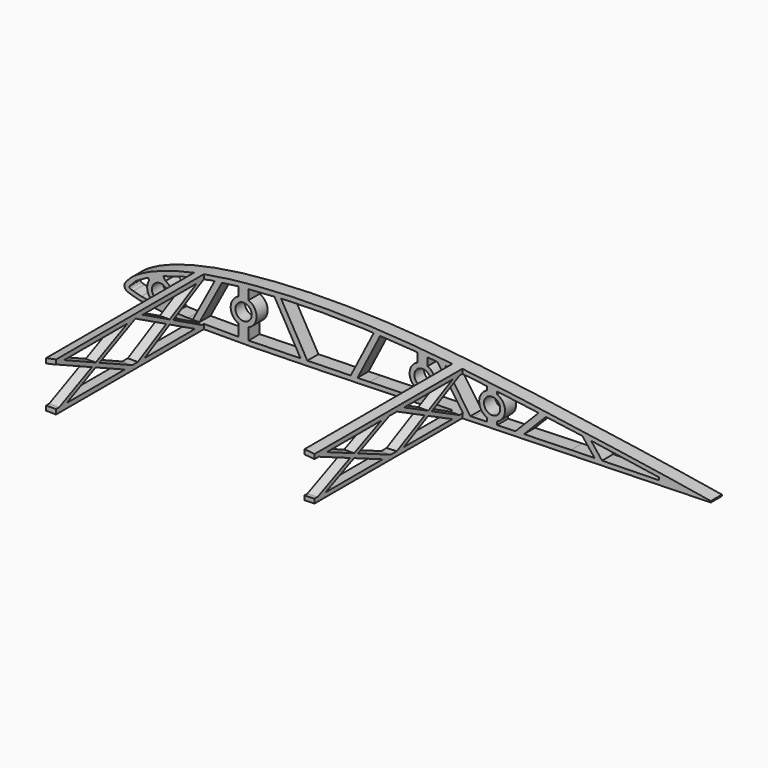
from build123d import *

# Parameters (mm, degrees)
PAD012_DEPTH    = 99.95
POCKET016_DEPTH = 99.95
SKETCH032_W     = 94.552856
SKETCH032_H     = 125.009666
POCKET017_DEPTH = 2.5
SKETCH177_W     = 55
SKETCH177_H     = 110
SKETCH177_W_2   = 125
SKETCH177_W_3   = 130
POCKET101_DEPTH = 50
SKETCH033_R     = 4.1
PAD013_DEPTH    = 7
PAD075_DEPTH    = 5
PAD076_DEPTH    = 5
CHAMFER005_SIZE = 1


with BuildPart() as part:
    # Sketch030 → Pad012 (new body)
    with BuildSketch(Plane.XZ):
        with BuildLine():
            add(Edge.make_bspline(
                [(299.999063, 0.026825), (299.662766, 0.037193), (298.339429, 0.190401), (295.439956, 0.589669), (290.775356, 1.337839), (284.500044, 2.393262), (276.735212, 3.66473), (267.577355, 5.083019), (257.136483, 6.653879), (245.549215, 8.381993), (232.975291, 10.222771), (219.590016, 12.153256), (205.573823, 14.115503), (191.111579, 16.055183), (176.381713, 17.897983), (161.544489, 19.553409), (146.739309, 20.940939), (132.087536, 21.99009), (117.705275, 22.664279), (103.703346, 22.961168), (90.192549, 22.858072), (77.284675, 22.375726), (65.094168, 21.544938), (53.730431, 20.369385), (43.29002, 18.857963), (33.852484, 17.043697), (25.485501, 14.967735), (18.252292, 12.67281), (12.179436, 10.224412), (7.338355, 7.689021), (3.623023, 5.152403), (1.3546, 2.748114), (-0.314638, 0.590402), (0.575789, -1.804065), (3.482069, -2.72942), (7.386052, -3.91761), (13.030922, -4.754284), (20.096342, -5.463024), (28.645402, -5.933379), (38.56853, -6.201185), (49.790194, -6.284208), (62.196701, -6.193111), (75.660953, -5.967607), (90.034637, -5.629522), (105.153445, -5.226063), (120.83724, -4.775199), (136.895942, -4.296045), (153.13493, -3.818601), (169.356828, -3.345106), (185.36574, -2.889379), (200.968742, -2.465331), (215.974941, -2.074889), (230.201502, -1.715375), (243.47905, -1.394255), (255.639348, -1.103787), (266.55871, -0.849968), (276.034544, -0.603524), (284.209012, -0.340437), (290.324953, -0.117215), (295.955653, 0.018504), (297.364702, 0.013759), (300.343856, 0.01512), (300.000055, 0.026794), (299.999063, 0.026825)],
                knots=[0, 0, 0, 0, 1.017748, 3.99659, 8.779341, 15.189917, 23.087031, 32.383824, 42.990765, 54.76218, 67.530065, 81.114584, 95.333435, 109.988542, 124.889458, 139.866624, 154.774633, 169.496697, 183.930349, 197.964304, 211.506735, 224.45797, 236.709214, 248.156653, 258.723012, 268.346769, 276.97692, 284.567784, 291.102108, 296.573756, 300.992679, 304.39163, 306.761357, 308.43213, 311.131254, 315.298227, 320.951765, 328.080828, 336.654655, 346.609821, 357.866231, 370.316475, 383.83025, 398.264023, 413.449345, 429.202773, 445.334827, 461.646891, 477.940787, 494.021253, 509.693044, 524.767168, 539.054704, 552.387642, 564.607107, 575.560217, 585.109622, 593.180747, 599.700326, 604.53767, 607.540683, 608.560842, 608.563842, 608.563842, 608.563842, 608.563842], degree=3))
        make_face()
    extrude(amount=PAD012_DEPTH)

    # Sketch031 (on Face3 of Pad012) → Pocket016 (cut)
    with BuildSketch(Plane.XZ.offset(99.95)):
        with BuildLine():
            Line((2.713263, 0.775372), (3.386703, 1.523026))
            Line((3.386703, 1.523026), (5.993214, 4.179621))
            Line((5.993214, 4.179621), (11.230826, 7.180706))
            Line((11.230826, 7.180706), (18.928726, 10.492708))
            Line((18.928726, 10.492708), (30.015602, 13.804502))
            Line((30.015602, 13.804502), (43.705284, 16.658491))
            Line((43.705284, 16.658491), (58.37534, 18.58366))
            Line((58.37534, 18.58366), (81.932846, 20.199753))
            Line((81.932846, 20.199753), (99.115959, 20.581533))
            Line((99.115959, 20.581533), (120.506348, 20.199753))
            Line((120.506348, 20.199753), (145.772324, 18.655943))
            Line((145.772324, 18.655943), (175.747543, 15.772772))
            Line((175.747543, 15.772772), (200.435547, 12.569891))
            Line((200.435547, 12.569891), (229.384109, 8.602522))
            Line((229.384109, 8.602522), (252.135086, 5.213018))
            Line((252.135086, 5.213018), (269.069916, 2.671427))
            Line((269.069916, 2.671427), (269.069916, 1.39956))
            Line((269.069916, 1.39956), (224.761032, 0.436598))
            Line((224.761032, 0.436598), (175.486649, -1.027315))
            Line((175.486649, -1.027315), (123.47789, -2.412929))
            Line((123.47789, -2.412929), (62.077515, -3.876549))
            Line((62.077515, -3.876549), (32.052879, -3.760909))
            Line((32.052879, -3.760909), (18.887957, -3.18288))
            Line((18.887957, -3.18288), (12.728564, -2.489715))
            Line((12.728564, -2.489715), (8.493419, -1.872198))
            Line((8.493419, -1.872198), (4.562357, -0.768246))
            Line((4.562357, -0.768246), (3.013953, -0.301296))
            ThreePointArc((2.713263, 0.775372), (2.567567, 0.15436), (3.013953, -0.301296))
        make_face()
    extrude(amount=-POCKET016_DEPTH, mode=Mode.SUBTRACT)

    # Sketch032 → Pocket017 (cut, symmetric)
    with BuildSketch(Plane.XY):
        with Locations((342.276428, -45.135685)):
            Rectangle(SKETCH032_W, SKETCH032_H)
    extrude(amount=POCKET017_DEPTH, both=True, mode=Mode.SUBTRACT)

    # Sketch177 → Pocket101 (cut, symmetric)
    with BuildSketch(Plane.XY):
        with Locations((7.5, -62)):
            Rectangle(SKETCH177_W, SKETCH177_H)
        with Locations((102.5, -62)):
            Rectangle(SKETCH177_W_2, SKETCH177_H)
        with Locations((235, -62)):
            Rectangle(SKETCH177_W_3, SKETCH177_H)
    extrude(amount=POCKET101_DEPTH, both=True, mode=Mode.SUBTRACT)

    # Sketch033 (on Face16 of Pocket101) → Pad013 (join)
    with BuildSketch(Plane.XZ.offset(7)):
        Polygon((45.883972, 17.721869), (33.929979, -4.654965), (37.331221, -4.654965), (49.864502, 18.806244), align=None)
        with BuildLine():
            ThreePointArc((12.49229, 6.45183), (11.877033, 0.818423), (15.915785, -3.156789))
            Line((15.915785, -3.156789), (16.615922, -4.582716))
            Line((16.615922, -4.582716), (26.093039, -4.582716))
            Line((23.927186, 0.331954), (26.093039, -4.582716))
            ThreePointArc((23.927186, 0.331954), (24.083233, 5.290038), (20.696327, 8.914374))
            Line((20.696327, 8.914374), (19.191151, 11.361285))
            Line((11.725203, 8.211095), (19.191151, 11.361285))
            Line((12.49229, 6.45183), (11.725203, 8.211095))
        make_face()
        with Locations((18, 3)):
            Circle(SKETCH033_R, mode=Mode.SUBTRACT)
        Polygon((74.837349, 20.968384), (89.206329, -4.249731), (92.659144, -4.249731), (78.184032, 21.154647), align=None)
        Polygon((113.371621, -3.617416), (125.992361, 20.986459), (129.33754, 20.934824), (116.743287, -3.617416), align=None)
        Polygon((156.489991, 19.012594), (171.223801, -2.187052), (175.064011, -2.455857), (160.385949, 18.663577), align=None)
        Polygon((195.991472, -1.145031), (209.190294, 12.320477), (213.439896, 12.370226), (200.19231, -1.145031), align=None)
        Polygon((229.837707, 9.194464), (237.095519, 0), (240.917549, 0), (234.226173, 8.476883), align=None)
        with BuildLine():
            ThreePointArc((57.5, 14), (53.5, 8), (57.5, 2))
            Line((57.5, 2), (57.5, -4.905906))
            Line((57.5, -4.905906), (62.5, -4.905906))
            Line((62.5, -4.905906), (62.5, 2))
            ThreePointArc((62.5, 2), (66.5, 8), (62.5, 14))
            Line((62.5, 14), (62.5, 20.034189))
            Line((62.5, 20.034189), (57.5, 19.556065))
            Line((57.5, 14), (57.5, 19.556065))
        make_face()
        with Locations((60, 8)):
            Circle(SKETCH033_R, mode=Mode.SUBTRACT)
        with BuildLine():
            ThreePointArc((147.5, 14), (143.5, 8), (147.5, 2))
            Line((147.5, 2), (147.5, -2.562403))
            Line((147.5, -2.562403), (152.5, -2.562403))
            Line((152.5, -2.562403), (152.5, 2))
            ThreePointArc((152.5, 2), (156.5, 8), (152.5, 14))
            Line((152.5, 18.960966), (152.5, 14))
            Line((147.5, 19.241402), (152.5, 18.960966))
            Line((147.5, 14), (147.5, 19.241402))
        make_face()
        with Locations((150, 8)):
            Circle(SKETCH033_R, mode=Mode.SUBTRACT)
        with BuildLine():
            ThreePointArc((182.5, 13), (178.5, 7), (182.5, 1))
            Line((182.5, 1), (182.5, -1.799935))
            Line((182.5, -1.799935), (187.5, -1.799935))
            Line((187.5, -1.799935), (187.5, 1))
            ThreePointArc((187.5, 1), (191.5, 7), (187.5, 13))
            Line((187.5, 15.534908), (187.5, 13))
            Line((182.5, 15.936711), (187.5, 15.534908))
            Line((182.5, 13), (182.5, 15.936711))
        make_face()
        with Locations((185, 7)):
            Circle(SKETCH033_R, mode=Mode.SUBTRACT)
    extrude(amount=-PAD013_DEPTH)

    # Sketch178 (on Face12 of Pad013) → Pad075 (join)
    with BuildSketch(Plane(origin=(35, 0, 0), x_dir=(0, 0, -1), z_dir=(-1, 0, 0))):
        Polygon((-17.098402, 50), (-16.000205, 50), (5.939144, 8.475523), (5.961339, 7.089303), (4.409559, 7.089303), (-17.122807, 47.843484), align=None)
        Polygon((-17.129333, 7.10705), (-17.129333, 9.145432), (4.558284, 50), (5.87403, 50.001778), (5.939742, 48.336863), (-15.947074, 7.10705), align=None)
        Polygon((-17.135797, 50), (-15.97758, 50.087739), (5.971195, 97.920066), (5.971195, 99.859802), (4.66077, 99.859802), (-17.135797, 52.359178), align=None)
        Polygon((-15.957584, 99.885406), (-17.033993, 99.885406), (-17.078244, 97.5311), (4.717648, 50), (5.827496, 50.157914), (5.827496, 52.377885), align=None)
    extrude(amount=-PAD075_DEPTH)

    # Sketch179 (on Face7 of Pad075) → Pad076 (join)
    with BuildSketch(Plane(origin=(170, 0, 0), x_dir=(0, 0, 1), z_dir=(1, 0, 0))):
        Polygon((-3.230705, 7.091972), (-2.057019, 7.091972), (18.437528, 47.77545), (18.437528, 50), (17.308382, 49.979477), (-3.230705, 9.207583), align=None)
        Polygon((17.122561, 7.079828), (18.495286, 7.079828), (18.495286, 8.806629), (-2.098574, 50), (-3.175621, 49.915909), (-3.175621, 47.681762), align=None)
        Polygon((-3.193453, 99.869281), (-2.030565, 99.869281), (18.427737, 53.149961), (18.502468, 50), (17.575653, 50.109833), (-3.193453, 97.538917), align=None)
        Polygon((-3.223656, 50), (-3.223656, 52.317749), (17.471001, 99.860643), (18.452137, 99.860643), (18.452137, 97.103538), (-2.059094, 49.982041), align=None)
    extrude(amount=-PAD076_DEPTH)

    # Chamfer005
    chamfer005_edges = [part.edges().sort_by_distance(p)[0] for p in [
        (55.9, 0, 8),
        (145.9, 0, 8),
    ]]
    chamfer(chamfer005_edges, length=CHAMFER005_SIZE)


with BuildPart() as part_1:
    # Body006 placement: moved
    add(part.part.moved(Location((0, -100, 0))))


solid = part_1.part
